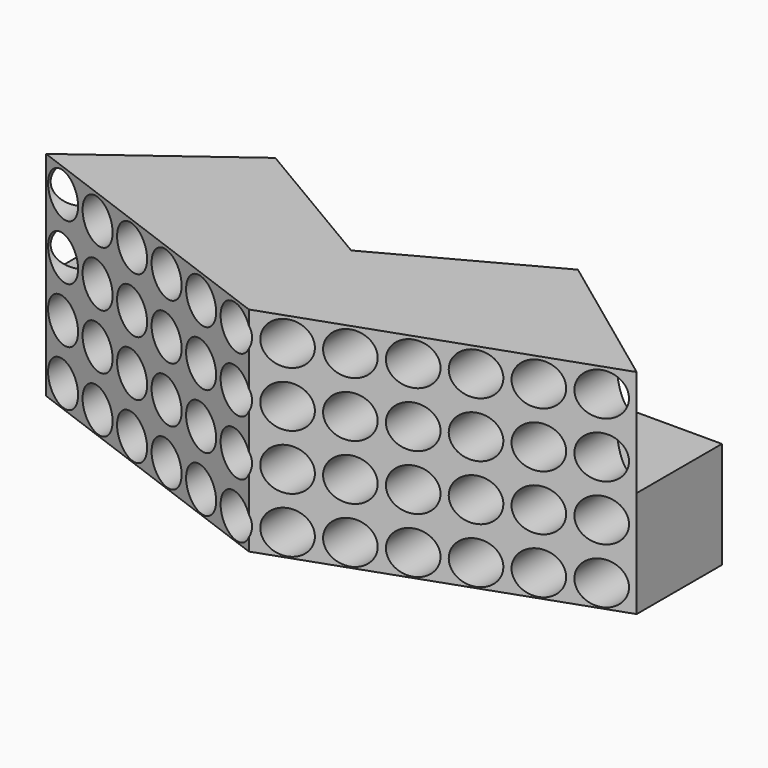
from build123d import *

# Parameters (mm, degrees)
F0_W     = 138.5714327227
F0_H     = 50
F1_DEPTH = 50
F2_R     = 5
F3_DEPTH = 50.001
F5_DEPTH = 50.001
F7_DEPTH = 50.001
F9_DEPTH = 25


with BuildPart() as f1:
    # F0 (on Front) → F1 (new body)
    with BuildSketch(Plane.XZ):
        with Locations((1.709715571, -25)):
            Rectangle(F0_W, F0_H)
    extrude(amount=F1_DEPTH)

    # F2 (on face) → F3 (cut, through all)
    with BuildSketch(Plane.XZ):
        with Locations((-61.9109951626, -5.7210989713)):
            Circle(F2_R)
        with Locations((-61.9109951626, -18.7210989713)):
            Circle(F2_R)
        with Locations((-61.9109951626, -31.7210989713)):
            Circle(F2_R)
        with Locations((-61.9109951626, -44.7210989713)):
            Circle(F2_R)
        with Locations((-50.4109951626, -5.7210989713)):
            Circle(F2_R)
        with Locations((-50.4109951626, -18.7210989713)):
            Circle(F2_R)
        with Locations((-50.4109951626, -31.7210989713)):
            Circle(F2_R)
        with Locations((-50.4109951626, -44.7210989713)):
            Circle(F2_R)
        with Locations((-38.9109951626, -5.7210989713)):
            Circle(F2_R)
        with Locations((-38.9109951626, -18.7210989713)):
            Circle(F2_R)
        with Locations((-38.9109951626, -31.7210989713)):
            Circle(F2_R)
        with Locations((-38.9109951626, -44.7210989713)):
            Circle(F2_R)
        with Locations((-27.4109951626, -5.7210989713)):
            Circle(F2_R)
        with Locations((-27.4109951626, -18.7210989713)):
            Circle(F2_R)
        with Locations((-27.4109951626, -31.7210989713)):
            Circle(F2_R)
        with Locations((-27.4109951626, -44.7210989713)):
            Circle(F2_R)
        with Locations((-15.9109951626, -5.7210989713)):
            Circle(F2_R)
        with Locations((-15.9109951626, -18.7210989713)):
            Circle(F2_R)
        with Locations((-15.9109951626, -31.7210989713)):
            Circle(F2_R)
        with Locations((-15.9109951626, -44.7210989713)):
            Circle(F2_R)
        with Locations((-4.4109951626, -5.7210989713)):
            Circle(F2_R)
        with Locations((-4.4109951626, -18.7210989713)):
            Circle(F2_R)
        with Locations((-4.4109951626, -31.7210989713)):
            Circle(F2_R)
        with Locations((-4.4109951626, -44.7210989713)):
            Circle(F2_R)
        with Locations((7.0890048374, -5.7210989713)):
            Circle(F2_R)
        with Locations((7.0890048374, -18.7210989713)):
            Circle(F2_R)
        with Locations((7.0890048374, -31.7210989713)):
            Circle(F2_R)
        with Locations((7.0890048374, -44.7210989713)):
            Circle(F2_R)
        with Locations((18.5890048374, -5.7210989713)):
            Circle(F2_R)
        with Locations((18.5890048374, -18.7210989713)):
            Circle(F2_R)
        with Locations((18.5890048374, -31.7210989713)):
            Circle(F2_R)
        with Locations((18.5890048374, -44.7210989713)):
            Circle(F2_R)
        with Locations((30.0890048374, -5.7210989713)):
            Circle(F2_R)
        with Locations((30.0890048374, -18.7210989713)):
            Circle(F2_R)
        with Locations((30.0890048374, -31.7210989713)):
            Circle(F2_R)
        with Locations((30.0890048374, -44.7210989713)):
            Circle(F2_R)
        with Locations((41.5890048374, -5.7210989713)):
            Circle(F2_R)
        with Locations((41.5890048374, -18.7210989713)):
            Circle(F2_R)
        with Locations((41.5890048374, -31.7210989713)):
            Circle(F2_R)
        with Locations((41.5890048374, -44.7210989713)):
            Circle(F2_R)
        with Locations((53.0890048374, -5.7210989713)):
            Circle(F2_R)
        with Locations((53.0890048374, -18.7210989713)):
            Circle(F2_R)
        with Locations((53.0890048374, -31.7210989713)):
            Circle(F2_R)
        with Locations((53.0890048374, -44.7210989713)):
            Circle(F2_R)
        with Locations((64.5890048374, -5.7210989713)):
            Circle(F2_R)
        with Locations((64.5890048374, -18.7210989713)):
            Circle(F2_R)
        with Locations((64.5890048374, -31.7210989713)):
            Circle(F2_R)
        with Locations((64.5890048374, -44.7210989713)):
            Circle(F2_R)
    extrude(amount=F3_DEPTH, mode=Mode.SUBTRACT)

    # F4 (on face) → F5 (cut, through all)
    with BuildSketch(Plane.XY):
        Polygon((37.2054319323, 0), (-33.7860007904, 0), (0, -20), align=None)
    extrude(amount=-F5_DEPTH, mode=Mode.SUBTRACT)

    # F6 (on face) → F7 (cut, through all)
    with BuildSketch(Plane.XY):
        Polygon((0, -50), (-67.5760007904, -25), (-67.5760007904, -50), align=None)
        Polygon((70.9954319323, -25), (0, -50), (70.9954319323, -50), align=None)
    extrude(amount=-F7_DEPTH, mode=Mode.SUBTRACT)

    # F8 (on face) → F9 (cut)
    with BuildSketch(Plane.XY):
        Polygon((-67.5760007904, 0), (-67.5760007904, -25), (-33.7860007904, 0), align=None)
        Polygon((37.2054319323, 0), (70.9954319323, -25), (70.9954319323, 0), (39.7841334343, 0), align=None)
    extrude(amount=-F9_DEPTH, mode=Mode.SUBTRACT)


solid = f1.part
